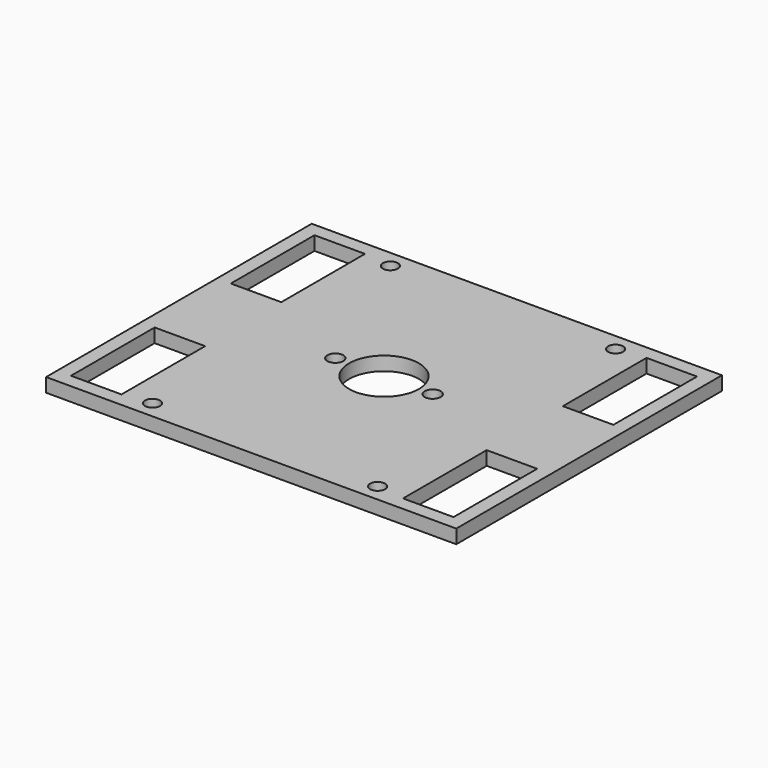
from build123d import *

# Parameters (mm, degrees)
F0_W     = 94.137683
F0_H     = 76.2
F0_W_2   = 11.587683
F0_H_2   = 24
F0_R     = 1.8288
F0_R_2   = 7.999997
F1_DEPTH = 3.175
F2_R     = 1.7272
F3_DEPTH = 3.175


with BuildPart() as f1:
    # F0 (on Top) → F1 (new body)
    with BuildSketch(Plane.XY):
        with Locations((47.068841, -38.1)):
            Rectangle(F0_W, F0_H)
        with Locations((8.968841, -61.025)):
            Rectangle(F0_W_2, F0_H_2, mode=Mode.SUBTRACT)
        with Locations((85.168841, -61.025)):
            Rectangle(F0_W_2, F0_H_2, mode=Mode.SUBTRACT)
        with Locations((35.893845, -38.1)):
            Circle(F0_R, mode=Mode.SUBTRACT)
        with Locations((47.068842, -38.1)):
            Circle(F0_R_2, mode=Mode.SUBTRACT)
        with Locations((8.968841, -15.175)):
            Rectangle(F0_W_2, F0_H_2, mode=Mode.SUBTRACT)
        with Locations((58.243838, -38.1)):
            Circle(F0_R, mode=Mode.SUBTRACT)
        with Locations((85.168841, -15.175)):
            Rectangle(F0_W_2, F0_H_2, mode=Mode.SUBTRACT)
    extrude(amount=F1_DEPTH)

    # F2 (on face) → F3 (cut, through all)
    with BuildSketch(Plane.XY.offset(3.175)):
        with Locations((21.231352, -3.96875)):
            Circle(F2_R)
        with Locations((72.906331, -3.96875)):
            Circle(F2_R)
        with Locations((72.906331, -72.23125)):
            Circle(F2_R)
        with Locations((21.231352, -72.23125)):
            Circle(F2_R)
    extrude(amount=-F3_DEPTH, mode=Mode.SUBTRACT)


solid = f1.part
